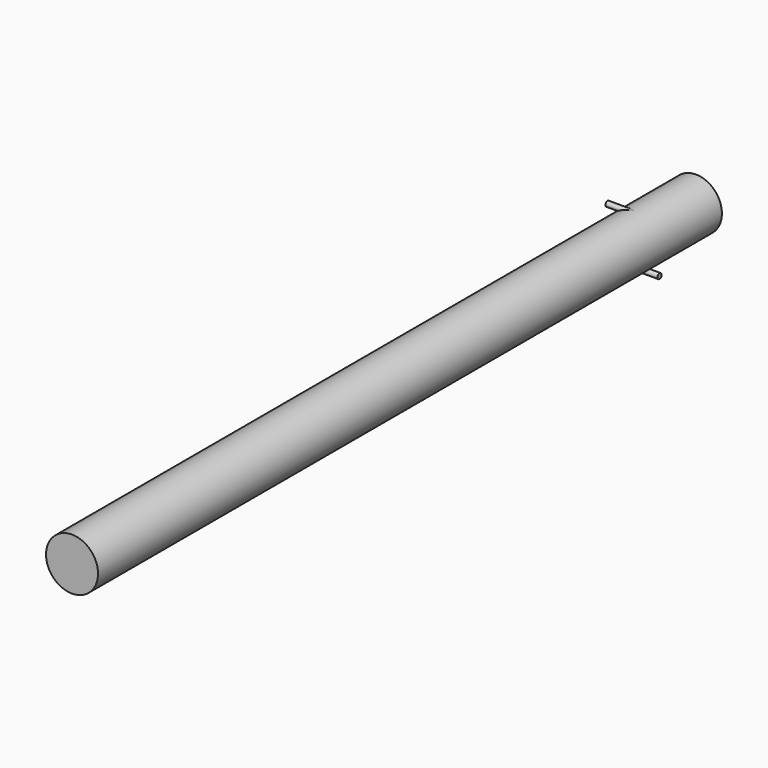
from build123d import *

# Parameters (mm, degrees)
F0_R     = 100
F1_DEPTH = 3000
F2_R     = 10
F3_DEPTH = 100
F4_COUNT = 2


with BuildPart() as f1:
    # F0 (on Front) → F1 (new body)
    with BuildSketch(Plane.XZ):
        Circle(F0_R)
    extrude(amount=F1_DEPTH)

    # F2 (on Right) → F3 (join)
    with BuildSketch(Plane.YZ):
        with Locations((-300, 90)):
            Circle(F2_R)
    extrude(amount=-F3_DEPTH)

    # F4: F1 ×2 about axis
    f4_axis = Axis((0, 0, 0), (0, 1, 0))


with BuildPart() as f1_1:
    add(f1.part)
    for i in range(1, F4_COUNT):
        add(f1.part.rotate(f4_axis, i * 360 / F4_COUNT))


solid = f1_1.part
